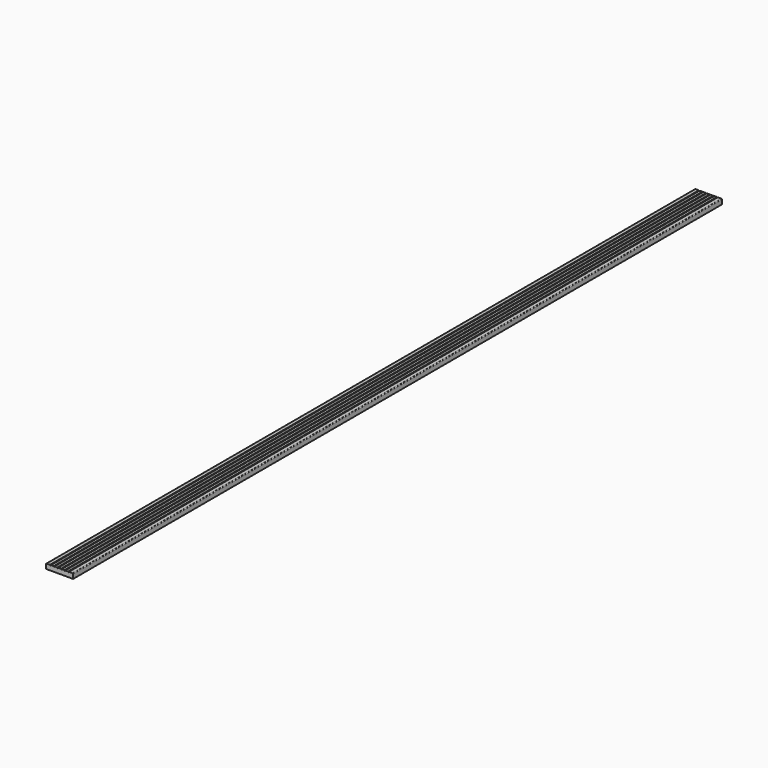
from build123d import *

# Parameters (mm, degrees)
F1_DEPTH = 3600


with BuildPart() as f1:
    # F0 (on Front) → F1 (new body)
    with BuildSketch(Plane.XZ):
        with BuildLine():
            Line((0, 19), (0, 0))
            Line((0, 0), (120, 0))
            Line((120, 0), (120, 19))
            ThreePointArc((120, 19), (119.12132, 21.12132), (117, 22))
            Line((117, 22), (102.5, 22))
            ThreePointArc((102.5, 22), (100, 19.5), (97.5, 22))
            Line((97.5, 22), (86.5, 22))
            ThreePointArc((86.5, 22), (84, 19.5), (81.5, 22))
            Line((81.5, 22), (70.5, 22))
            ThreePointArc((70.5, 22), (68, 19.5), (65.5, 22))
            Line((65.5, 22), (54.5, 22))
            ThreePointArc((54.5, 22), (52, 19.5), (49.5, 22))
            Line((49.5, 22), (38.5, 22))
            ThreePointArc((38.5, 22), (36, 19.5), (33.5, 22))
            Line((33.5, 22), (22.5, 22))
            ThreePointArc((22.5, 22), (20, 19.5), (17.5, 22))
            Line((17.5, 22), (3, 22))
            ThreePointArc((3, 22), (0.87868, 21.12132), (0, 19))
        make_face()
    extrude(amount=F1_DEPTH)


solid = f1.part
